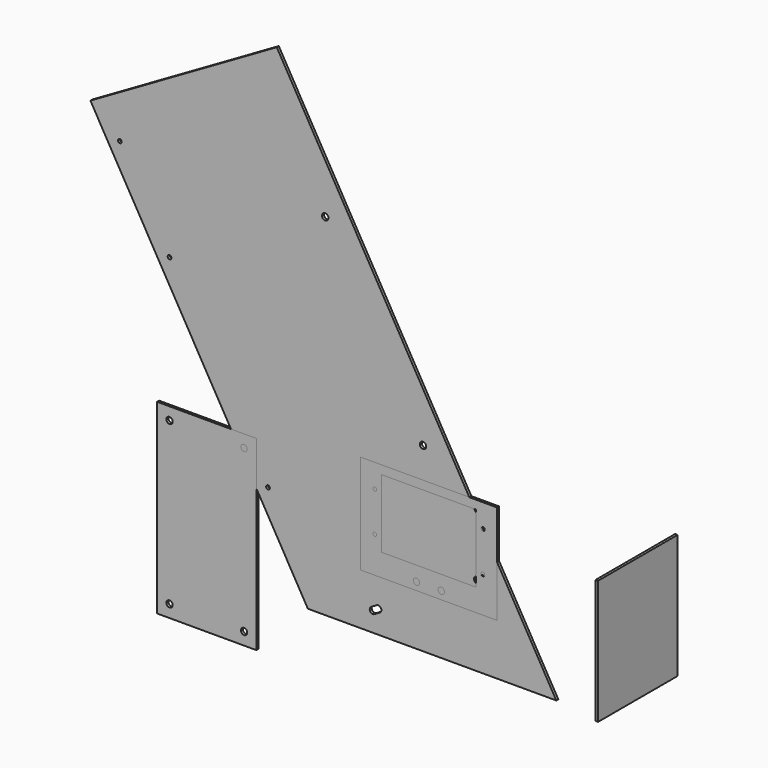
from build123d import *

# Parameters (mm, degrees)
F0_R     = 1.5
F0_R_2   = 2.6
F1_DEPTH = 2
F2_W     = 80
F2_H     = 100
F3_DEPTH = 2
F4_W     = 110
F4_H     = 80
F4_R     = 2.6
F4_R_2   = 1.5
F4_W_2   = 76
F4_H_2   = 55
F5_DEPTH = 2
F6_W     = 80
F6_H     = 150
F6_R     = 2.55
F7_DEPTH = 2


with BuildPart() as f1:
    # F0 (on Front) → F1 (new body)
    with BuildSketch(Plane.XZ):
        Polygon((-396.830598, 269.2149), (-221.830598, -33.893992), (-21.830598, -33.893992), (-71.830598, 52.708549), (-246.830598, 355.81744), align=None)
        with Locations((-253.920344, 41.687079)):
            Circle(F0_R, mode=Mode.SUBTRACT)
        with BuildLine():
            ThreePointArc((-162.983456, -14.41007), (-162.733705, -16.307118), (-163.89852, -17.825134))
            Line((-163.89852, -17.825134), (-168.228647, -20.325134))
            ThreePointArc((-168.228647, -20.325134), (-170.125695, -20.574885), (-171.64371, -19.41007))
            Line((-171.64371, -19.41007), (-171.69371, -19.323468))
            ThreePointArc((-171.69371, -19.323468), (-171.943461, -17.42642), (-170.778647, -15.908404))
            Line((-170.778647, -15.908404), (-166.44852, -13.408404))
            ThreePointArc((-166.44852, -13.408404), (-164.551472, -13.158653), (-163.033456, -14.323468))
            Line((-163.033456, -14.323468), (-162.983456, -14.41007))
        make_face(mode=Mode.SUBTRACT)
        with BuildLine():
            ThreePointArc((-79.027981, 34.171403), (-78.910289, 32.363716), (-80.044363, 30.951109))
            Line((-80.044363, 30.951109), (-84.384654, 28.445241))
            ThreePointArc((-84.384654, 28.445241), (-86.38711, 28.226231), (-87.901036, 29.555075))
            Line((-87.901036, 29.555075), (-87.922211, 29.600553))
            ThreePointArc((-87.922211, 29.600553), (-88.039903, 31.40824), (-86.905829, 32.820847))
            Line((-86.905829, 32.820847), (-82.565538, 35.326715))
            ThreePointArc((-82.565538, 35.326715), (-80.563082, 35.545725), (-79.049156, 34.216881))
            Line((-79.049156, 34.216881), (-79.027981, 34.171403))
        make_face(mode=Mode.SUBTRACT)
        with Locations((-129.151107, 111.990581)):
            Circle(F0_R_2, mode=Mode.SUBTRACT)
        with Locations((-333.170344, 178.952105)):
            Circle(F0_R, mode=Mode.SUBTRACT)
        with Locations((-373.170344, 248.234137)):
            Circle(F0_R, mode=Mode.SUBTRACT)
        with Locations((-207.851107, 248.302979)):
            Circle(F0_R_2, mode=Mode.SUBTRACT)
    extrude(amount=F1_DEPTH)


with BuildPart() as f3:
    # F2 (on Right) → F3 (new body)
    with BuildSketch(Plane.YZ):
        with Locations((50.180683, 3.744156)):
            Rectangle(F2_W, F2_H)
    extrude(amount=F3_DEPTH)


with BuildPart() as f5:
    # F4 (on Front) → F5 (new body)
    with BuildSketch(Plane.XZ):
        with Locations((-124.406036, 47.36132)):
            Rectangle(F4_W, F4_H)
        with Locations((-134.406036, 13.71132)):
            Circle(F4_R, mode=Mode.SUBTRACT)
        with Locations((-167.960587, 36.408519)):
            Circle(F4_R_2, mode=Mode.SUBTRACT)
        with Locations((-114.406036, 13.71132)):
            Circle(F4_R, mode=Mode.SUBTRACT)
        with Locations((-80.960587, 36.408519)):
            Circle(F4_R_2, mode=Mode.SUBTRACT)
        with Locations((-124.460587, 52.908519)):
            Rectangle(F4_W_2, F4_H_2, mode=Mode.SUBTRACT)
        with Locations((-167.960587, 68.408519)):
            Circle(F4_R_2, mode=Mode.SUBTRACT)
        with Locations((-80.960587, 68.408519)):
            Circle(F4_R_2, mode=Mode.SUBTRACT)
    extrude(amount=F5_DEPTH)


with BuildPart() as f7:
    # F6 (on Front) → F7 (new body)
    with BuildSketch(Plane.XZ):
        with Locations((-303.185135, -1.723323)):
            Rectangle(F6_W, F6_H)
        with Locations((-333.185135, -66.723323)):
            Circle(F6_R, mode=Mode.SUBTRACT)
        with Locations((-273.185135, -66.723323)):
            Circle(F6_R, mode=Mode.SUBTRACT)
        with Locations((-333.185135, 63.276677)):
            Circle(F6_R, mode=Mode.SUBTRACT)
        with Locations((-273.185135, 63.276677)):
            Circle(F6_R, mode=Mode.SUBTRACT)
    extrude(amount=F7_DEPTH)


solid = Compound([f1.part, f3.part, f5.part, f7.part])
